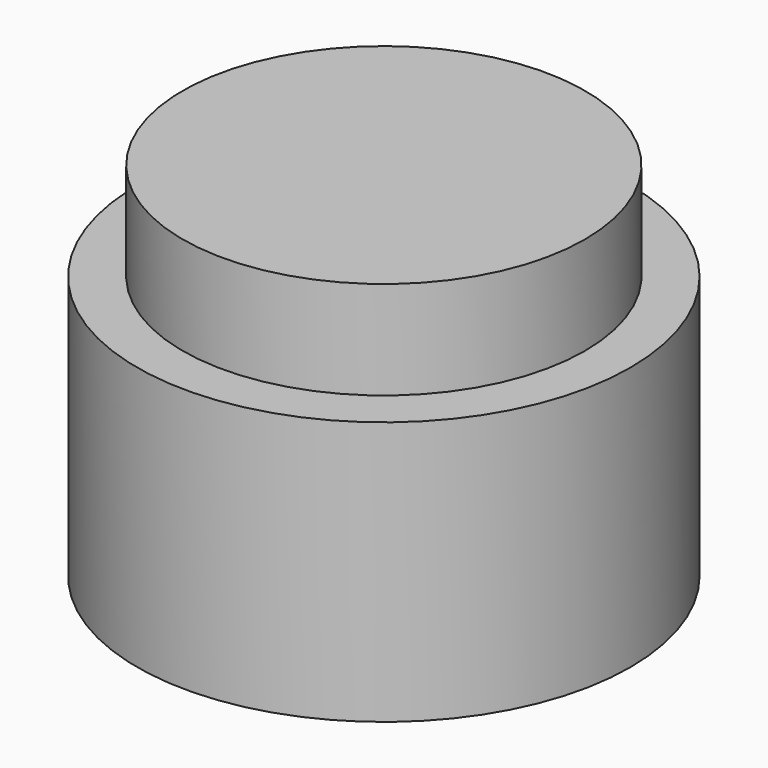
from build123d import *

# Parameters (mm, degrees)
F0_R     = 100.5
F1_DEPTH = 107.5
F2_R     = 82
F3_DEPTH = 40
F5_DEPTH = 42.6


with BuildPart() as f1:
    # F0 (on Top) → F1 (new body)
    with BuildSketch(Plane.XY):
        Circle(F0_R)
    extrude(amount=F1_DEPTH)

    # F2 (on face) → F3 (join)
    with BuildSketch(Plane.XY.offset(107.5)):
        Circle(F2_R)
    extrude(amount=F3_DEPTH)

    # F4 (on face) → F5 (join)
    with BuildSketch(Plane(origin=(0, 0, 0), x_dir=(1, 0, 0), z_dir=(0, 0, -1))):
        with BuildLine():
            ThreePointArc((-2.4, 10.847677), (-6.955864, -8.663028), (11.11, 0))
            ThreePointArc((11.11, 0), (8.663028, 6.955864), (2.4, 10.847677))
            Line((2.4, 10.847677), (2.4, 8.46))
            Line((2.4, 8.46), (0, 8.46))
            Line((0, 8.46), (-2.4, 8.46))
            Line((-2.4, 8.46), (-2.4, 10.847677))
        make_face()
        with BuildLine():
            ThreePointArc((5.555, 0), (-3.927978, -3.927978), (0, 5.555))
            ThreePointArc((0, 5.555), (3.927978, 3.927978), (5.555, 0))
        make_face(mode=Mode.SUBTRACT)
    extrude(amount=F5_DEPTH)


solid = f1.part
